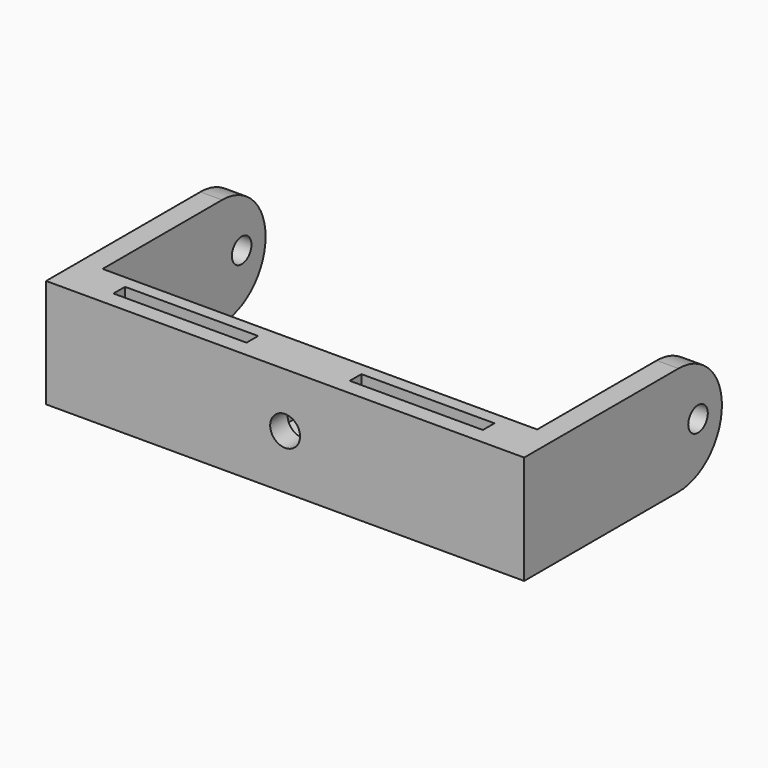
from build123d import *

# Parameters (mm, degrees)
SKETCH005_W             = 80
SKETCH005_H             = 20
SKETCH005_R             = 2.75
PAD010_DEPTH            = 8
POCKET009_DEPTH         = 4
SKETCH011_W             = 24.5
SKETCH011_H             = 2.666667
POCKET010_DEPTH         = 185.699521
SKETCH017_R             = 2.25
PAD011_DEPTH            = 4
BODY002_PLACEMENT_ANGLE = 180


with BuildPart() as part:
    # Sketch005 → Pad010 (new body)
    with BuildSketch(Plane.XZ):
        Rectangle(SKETCH005_W, SKETCH005_H)
        Circle(SKETCH005_R, mode=Mode.SUBTRACT)
    extrude(amount=PAD010_DEPTH)

    # Sketch007 → Pocket009 (cut)
    with BuildSketch(Plane.XZ.offset(8)):
        Polygon((4.113621, 2.375), (0, 4.75), (-4.113621, 2.375), (-4.113621, -2.375), (0, -4.75), (4.113621, -2.375), align=None)
    extrude(amount=-POCKET009_DEPTH, mode=Mode.SUBTRACT)

    # Sketch011 → Pocket010 (cut, through all)
    with BuildSketch(Plane(origin=(0, 0, 10), x_dir=(-1, 0, 0), z_dir=(0, 0, 1))):
        with Locations((-21.75, 4.333334)):
            Rectangle(SKETCH011_W, SKETCH011_H)
    pocket010 = extrude(amount=-POCKET010_DEPTH, mode=Mode.SUBTRACT)

    # Sketch017 (on Face4 of Pad010) → Pad011 (join)
    with BuildSketch(Plane(origin=(-40, 0, 0), x_dir=(0, 0, -1), z_dir=(-1, 0, 0))):
        with BuildLine():
            Line((-10, 0), (10, 0))
            Line((10, 0), (10, 35.5))
            ThreePointArc((10, 35.5), (0, 45.5), (-10, 35.5))
            Line((-10, 35.5), (-10, 0))
        make_face()
        with Locations((0, 40)):
            Circle(SKETCH017_R, mode=Mode.SUBTRACT)
    pad011 = extrude(amount=PAD011_DEPTH)

    # Mirrored007: Pad011 across YZ
    add(pad011.mirror(Plane.YZ))

    # Mirrored008: Pocket010 across YZ
    add(pocket010.mirror(Plane.YZ), mode=Mode.SUBTRACT)


with BuildPart() as part_1:
    # Body002 placement: moved
    add(part.part.moved(Location((0, 2, 9))).rotate(Axis((0, 2, 9), (1, 0, 0)), BODY002_PLACEMENT_ANGLE))


solid = part_1.part
